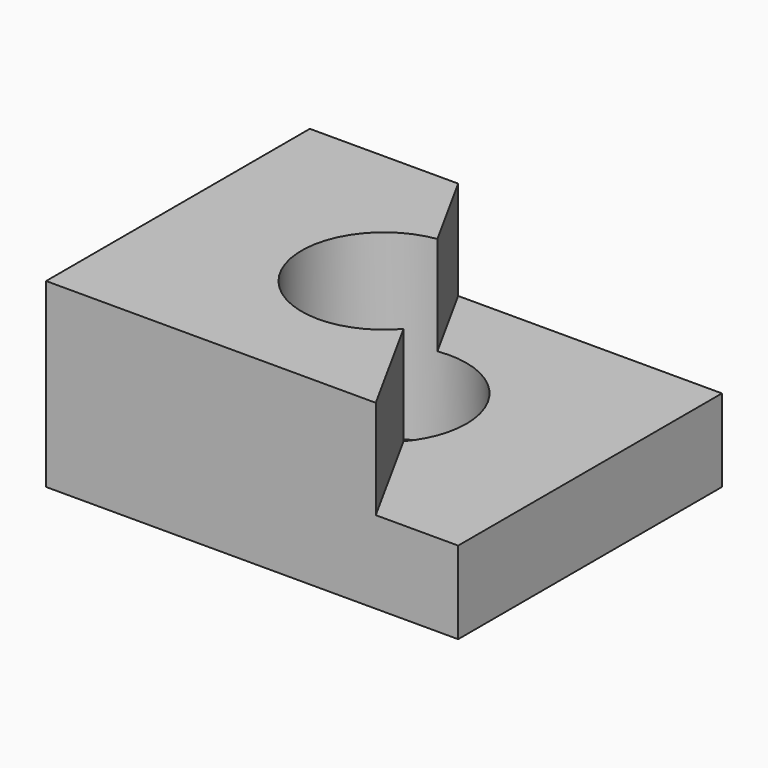
from build123d import *

# Parameters (mm, degrees)
F0_W     = 100
F0_H     = 80
F1_DEPTH = 44
F2_R     = 20
F3_DEPTH = 44.001
F5_DEPTH = 24


with BuildPart() as f1:
    # F0 (on Top) → F1 (new body)
    with BuildSketch(Plane.XY):
        Rectangle(F0_W, F0_H)
    extrude(amount=F1_DEPTH)

    # F2 (on face) → F3 (cut, through all)
    with BuildSketch(Plane.XY.offset(44)):
        Circle(F2_R)
    extrude(amount=-F3_DEPTH, mode=Mode.SUBTRACT)

    # F4 (on face) → F5 (cut)
    with BuildSketch(Plane.XY.offset(44)):
        Polygon((50, 40), (-14, 40), (30, -40), (50, -40), align=None)
    extrude(amount=-F5_DEPTH, mode=Mode.SUBTRACT)


solid = f1.part
